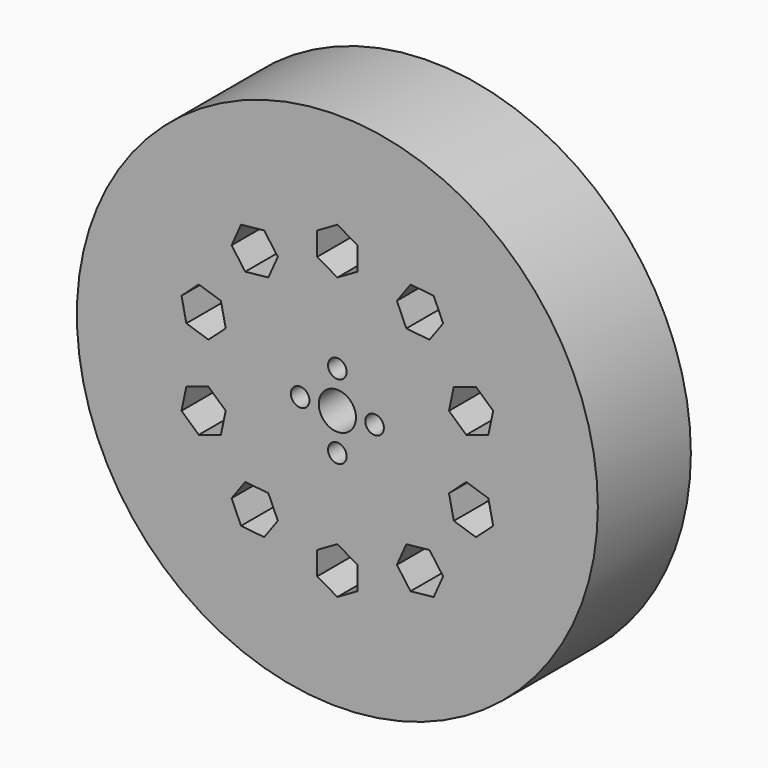
from build123d import *

# Parameters (mm, degrees)
F0_R     = 56
F0_R_2   = 21
F2_DEPTH = 12.5
F3_DEPTH = 25
F0_R_3   = 16
F0_R_4   = 2
F0_R_5   = 4
F4_DEPTH = 12.5


with BuildPart() as f2:
    # F0 (on Front) → F2 (new body, symmetric)
    with BuildSketch(Plane.XZ):
        with Locations((-66, 0)):
            Circle(F0_R)
        with Locations((-66, 0)):
            Circle(F0_R_2, mode=Mode.SUBTRACT)
    extrude(amount=F2_DEPTH, both=True)

    # F1 (on Front) → F3 (cut, symmetric)
    with BuildSketch(Plane.XZ):
        Polygon((-91.035729, 12.687567), (-95.791012, 14.232651), (-99.506736, 10.886998), (-98.467177, 5.99626), (-93.711895, 4.451175), (-89.996171, 7.796829), align=None)
        Polygon((-78.796766, 24.980089), (-81.735692, 29.025174), (-86.708302, 28.502532), (-88.741985, 23.934805), (-85.803059, 19.88972), (-80.830449, 20.412362), align=None)
        Polygon((-66, 25.231067), (-61.669873, 27.731067), (-61.669873, 32.731067), (-66, 35.231067), (-70.330127, 32.731067), (-70.330127, 27.731067), align=None)
        Polygon((-46.196941, 19.88972), (-43.258015, 23.934805), (-45.291698, 28.502532), (-50.264308, 29.025174), (-53.203234, 24.980089), (-51.169551, 20.412362), align=None)
        Polygon((-38.288105, 4.451175), (-33.532823, 5.99626), (-32.493264, 10.886998), (-36.208988, 14.232651), (-40.964271, 12.687567), (-42.003829, 7.796829), align=None)
        Polygon((-40.964271, -12.687567), (-36.208988, -14.232651), (-32.493264, -10.886998), (-33.532823, -5.99626), (-38.288105, -4.451175), (-42.003829, -7.796829), align=None)
        Polygon((-53.203234, -24.980089), (-50.264308, -29.025174), (-45.291698, -28.502532), (-43.258015, -23.934805), (-46.196941, -19.88972), (-51.169551, -20.412362), align=None)
        Polygon((-70.330127, -27.731067), (-70.330127, -32.731067), (-66, -35.231067), (-61.669873, -32.731067), (-61.669873, -27.731067), (-66, -25.231067), align=None)
        Polygon((-85.803059, -19.88972), (-88.741985, -23.934805), (-86.708302, -28.502532), (-81.735692, -29.025174), (-78.796766, -24.980089), (-80.830449, -20.412362), align=None)
        Polygon((-93.711895, -4.451175), (-98.467177, -5.99626), (-99.506736, -10.886998), (-95.791012, -14.232651), (-91.035729, -12.687567), (-89.996171, -7.796829), align=None)
    extrude(amount=F3_DEPTH, both=True, mode=Mode.SUBTRACT)

    # F0 (on Front) → F4 (join, symmetric)
    with BuildSketch(Plane.XZ):
        with Locations((-66, 0)):
            Circle(F0_R_2)
        with Locations((-66, 0)):
            Circle(F0_R_3, mode=Mode.SUBTRACT)
        with Locations((-66, 0)):
            Circle(F0_R_3)
        with Locations((-66, -8)):
            Circle(F0_R_4, mode=Mode.SUBTRACT)
        with Locations((-74, 0)):
            Circle(F0_R_4, mode=Mode.SUBTRACT)
        with Locations((-66, 0)):
            Circle(F0_R_5, mode=Mode.SUBTRACT)
        with Locations((-66, 8)):
            Circle(F0_R_4, mode=Mode.SUBTRACT)
        with Locations((-58, 0)):
            Circle(F0_R_4, mode=Mode.SUBTRACT)
    extrude(amount=F4_DEPTH, both=True)


solid = f2.part
